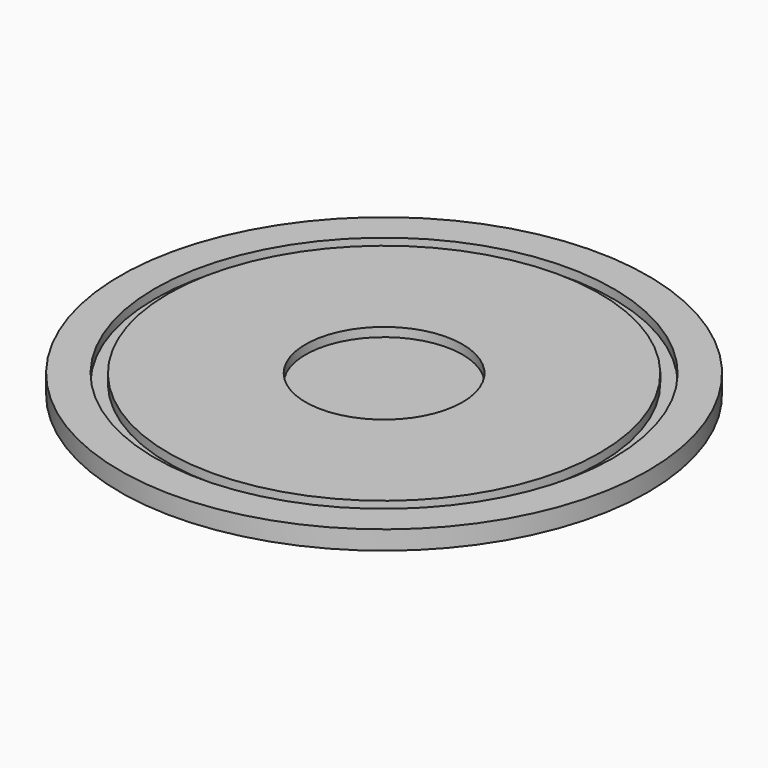
from build123d import *

# Parameters (mm, degrees)
F0_R     = 44.45
F1_DEPTH = 3.175
F2_R     = 38.608
F2_R_2   = 36.322
F2_R_3   = 13.208
F3_DEPTH = 1.524


with BuildPart() as f1:
    # F0 (on Top) → F1 (new body)
    with BuildSketch(Plane.XY):
        Circle(F0_R)
    extrude(amount=F1_DEPTH)

    # F2 (on face) → F3 (cut)
    with BuildSketch(Plane.XY.offset(3.175)):
        Circle(F2_R)
        Circle(F2_R_2, mode=Mode.SUBTRACT)
        Circle(F2_R_3)
    extrude(amount=-F3_DEPTH, mode=Mode.SUBTRACT)


solid = f1.part
